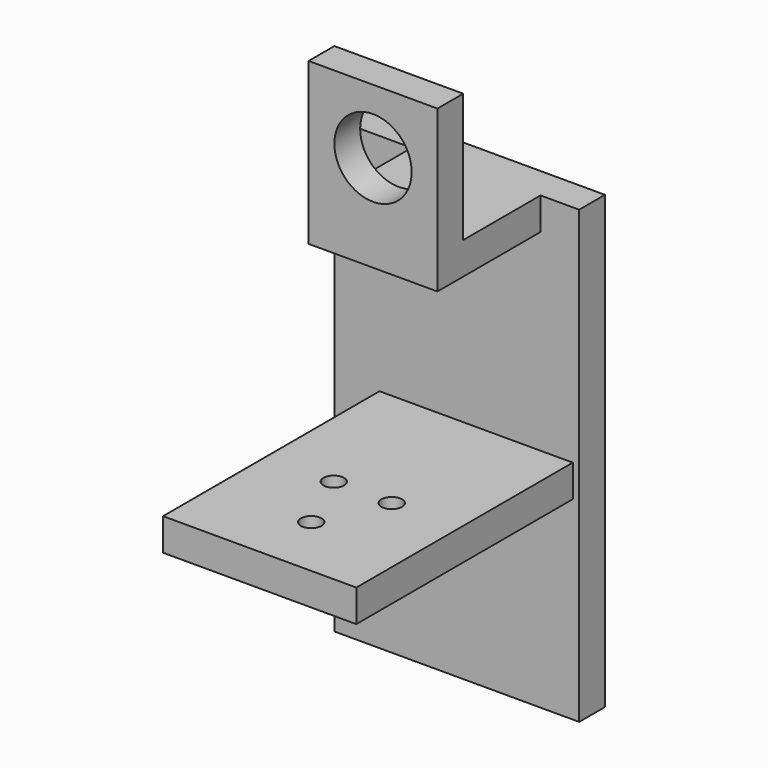
from build123d import *

# Parameters (mm, degrees)
F0_W      = 30
F0_H      = 30
F0_R      = 1.6
F1_DEPTH  = 5
F2_DEPTH  = 12
F3_W      = 38
F3_H      = 65
F3_R      = 2
F3_W_2    = 30
F3_H_2    = 5
F4_DEPTH  = 5
F5_DEPTH  = 5
F7_DEPTH  = 20
F8_W      = 20
F8_H      = 5
F9_DEPTH  = 20
F10_R     = 6
F11_DEPTH = 5


with BuildPart() as f1:
    # F0 (on Top) → F1 (new body)
    with BuildSketch(Plane.XY):
        with Locations((-45.2852314338, 17.7588454891)):
            Rectangle(F0_W, F0_H)
        with Locations((-45.2852314338, 12.7588454891)):
            Circle(F0_R, mode=Mode.SUBTRACT)
        with Locations((-49.7852314338, 22.7588454891)):
            Circle(F0_R, mode=Mode.SUBTRACT)
        with Locations((-40.7852314338, 22.7588454891)):
            Circle(F0_R, mode=Mode.SUBTRACT)
    extrude(amount=F1_DEPTH)

    # F2 (add): a face of the model
    f2_faces = [f1.faces().sort_by_distance(p)[0] for p in [
        (-45.2852314338, 32.7588454891, 2.5),
    ]]
    extrude(f2_faces, amount=F2_DEPTH)

    # F3 (on face) → F4 (join)
    with BuildSketch(Plane(origin=(0, 44.7588454891, 0), x_dir=(-1, 0, 0), z_dir=(0, 1, 0))):
        with Locations((48.2852314338, 2.3887734723)):
            Rectangle(F3_W, F3_H)
        with Locations((59.2852314338, -18.1112265277)):
            Circle(F3_R, mode=Mode.SUBTRACT)
        with Locations((45.2852314338, 2.5)):
            Rectangle(F3_W_2, F3_H_2, mode=Mode.SUBTRACT)
        with Locations((59.2852314338, 29.8887734723)):
            Circle(F3_R, mode=Mode.SUBTRACT)
        with Locations((45.2852314338, 2.5)):
            Rectangle(F3_W_2, F3_H_2)
    extrude(amount=F4_DEPTH)

    # F5 (add): a face of the model
    f5_faces = [f1.faces().sort_by_distance(p)[0] for p in [
        (-48.2852314338, 47.2588454891, 34.8887734723),
    ]]
    extrude(f5_faces, amount=F5_DEPTH)

    # F6 (on face) → F7 (join)
    with BuildSketch(Plane.XZ.offset(-44.7588454891)):
        Polygon((-35.2852314338, 39.8887734723), (-55.2852314338, 39.8887734723), (-55.2852314338, 34.8887734723), (-45.2852314338, 34.8887734723), (-35.2852314338, 34.8887734723), align=None)
    extrude(amount=F7_DEPTH)

    # F8 (on face) → F9 (join)
    with BuildSketch(Plane.XY.offset(39.8887734723)):
        with Locations((-45.2852314338, 27.2588454891)):
            Rectangle(F8_W, F8_H)
    extrude(amount=F9_DEPTH)

    # F10 (on face) → F11 (cut)
    with BuildSketch(Plane(origin=(0, 29.7588454891, 0), x_dir=(-1, 0, 0), z_dir=(0, 1, 0))):
        with Locations((45.2852314338, 49.8887734723)):
            Circle(F10_R)
    extrude(amount=-F11_DEPTH, mode=Mode.SUBTRACT)


solid = f1.part
